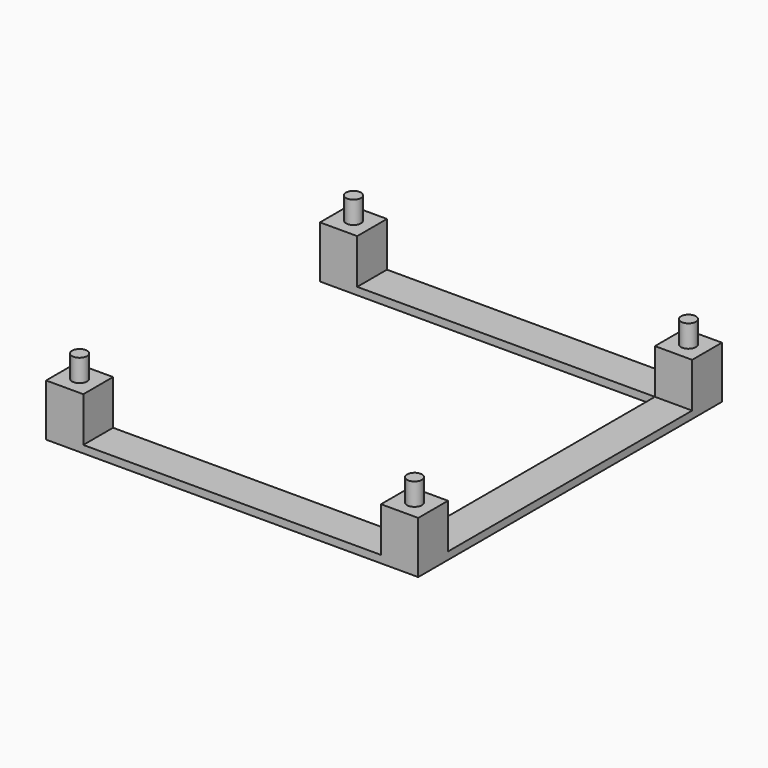
from build123d import *

# Parameters (mm, degrees)
F0_W     = 40
F0_H     = 5
F0_W_2   = 5
F0_R     = 1
F0_H_2   = 41
F1_DEPTH = 1
F2_DEPTH = 7
F3_DEPTH = 10


with BuildPart() as f1:
    # F0 (on Top) → F1 (new body)
    with BuildSketch(Plane.XY):
        with Locations((0, -23)):
            Rectangle(F0_W, F0_H)
        with Locations((0, 23)):
            Rectangle(F0_W, F0_H)
        with Locations((-22.5, 23)):
            Rectangle(F0_W_2, F0_H)
        with Locations((-22.5, 23)):
            Circle(F0_R, mode=Mode.SUBTRACT)
        with Locations((22.5, 23)):
            Rectangle(F0_W_2, F0_H)
        with Locations((22.5, 23)):
            Circle(F0_R, mode=Mode.SUBTRACT)
        with Locations((22.5, -23)):
            Rectangle(F0_W_2, F0_H)
        with Locations((22.5, -23)):
            Circle(F0_R, mode=Mode.SUBTRACT)
        with Locations((-22.5, -23)):
            Rectangle(F0_W_2, F0_H)
        with Locations((-22.5, -23)):
            Circle(F0_R, mode=Mode.SUBTRACT)
        with Locations((22.5, 0)):
            Rectangle(F0_W_2, F0_H_2)
        with Locations((-22.5, 23)):
            Circle(F0_R)
        with Locations((22.5, 23)):
            Circle(F0_R)
        with Locations((22.5, -23)):
            Circle(F0_R)
        with Locations((-22.5, -23)):
            Circle(F0_R)
    extrude(amount=F1_DEPTH)

    # F0 (on Top) → F2 (join)
    with BuildSketch(Plane.XY):
        with Locations((22.5, 23)):
            Rectangle(F0_W_2, F0_H)
        with Locations((22.5, 23)):
            Circle(F0_R, mode=Mode.SUBTRACT)
        with Locations((22.5, 23)):
            Circle(F0_R)
        with Locations((-22.5, 23)):
            Rectangle(F0_W_2, F0_H)
        with Locations((-22.5, 23)):
            Circle(F0_R, mode=Mode.SUBTRACT)
        with Locations((-22.5, 23)):
            Circle(F0_R)
        with Locations((22.5, -23)):
            Rectangle(F0_W_2, F0_H)
        with Locations((22.5, -23)):
            Circle(F0_R, mode=Mode.SUBTRACT)
        with Locations((22.5, -23)):
            Circle(F0_R)
        with Locations((-22.5, -23)):
            Rectangle(F0_W_2, F0_H)
        with Locations((-22.5, -23)):
            Circle(F0_R, mode=Mode.SUBTRACT)
        with Locations((-22.5, -23)):
            Circle(F0_R)
    extrude(amount=F2_DEPTH)

    # F0 (on Top) → F3 (join)
    with BuildSketch(Plane.XY):
        with Locations((22.5, 23)):
            Circle(F0_R)
        with Locations((-22.5, 23)):
            Circle(F0_R)
        with Locations((-22.5, -23)):
            Circle(F0_R)
        with Locations((22.5, -23)):
            Circle(F0_R)
    extrude(amount=F3_DEPTH)


solid = f1.part
